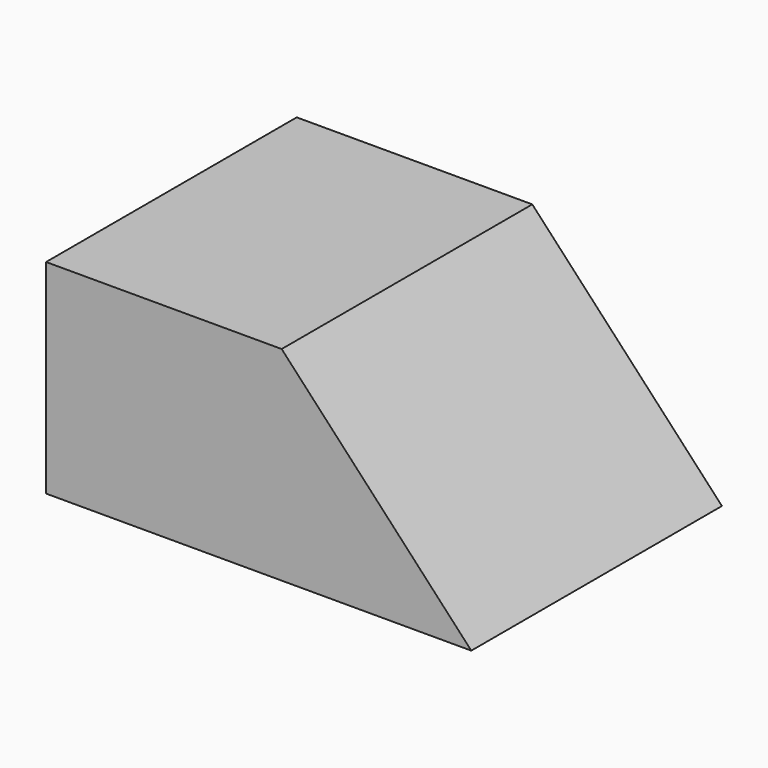
from build123d import *

# Parameters (mm, degrees)
F0_W     = 146.750048
F0_H     = 97.573176
F1_DEPTH = 63.5
F3_DEPTH = 97.574176
F5_DEPTH = 97.574176


with BuildPart() as f1:
    # F0 (on Top) → F1 (new body)
    with BuildSketch(Plane.XY):
        Rectangle(F0_W, F0_H)
    extrude(amount=F1_DEPTH)

    # F2 (on face) → F3 (cut, through all)
    with BuildSketch(Plane.XZ.offset(48.786588)):
        Polygon((73.375024, 63.5), (0, 63.5), (73.375024, 0), align=None)
    extrude(amount=-F3_DEPTH, mode=Mode.SUBTRACT)

    # F4 (on face) → F5 (cut, through all)
    with BuildSketch(Plane.XZ.offset(48.786588)):
        Polygon((0, 63.5), (59.064299, 0), (73.375024, 0), align=None)
    extrude(amount=-F5_DEPTH, mode=Mode.SUBTRACT)


solid = f1.part
